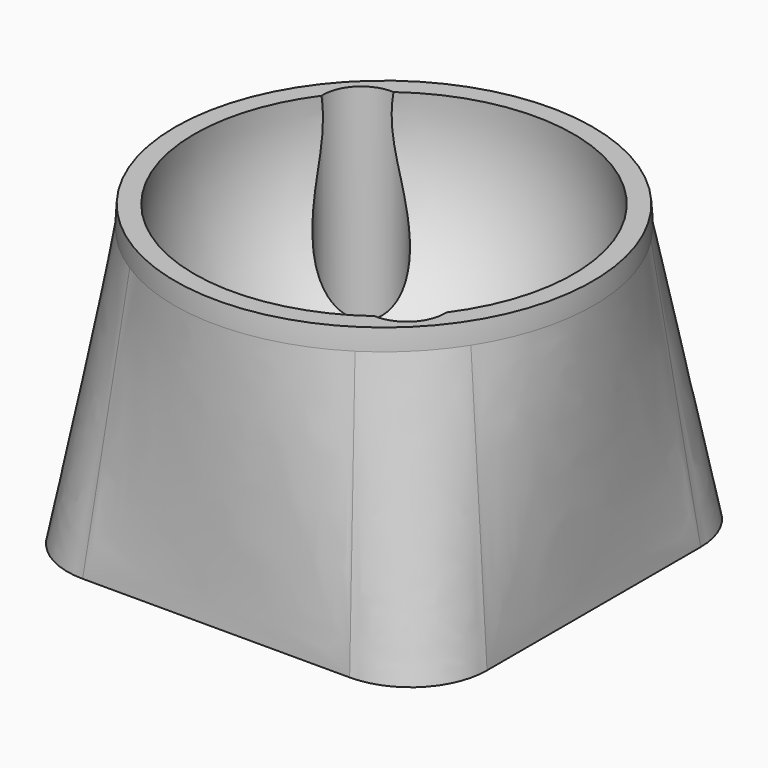
from build123d import *

# Parameters (mm, degrees)
BOX_W                  = 44
BOX_H                  = 44
BOX_DEPTH              = 44
SKETCH_R               = 22
CUT001_PLACEMENT_ANGLE = 180
SKETCH002_R            = 2.2
POCKET_DEPTH           = 30.201
SKETCH003_R            = 4
POCKET001_DEPTH        = 28.2
SKETCH004_R            = 1.75
PAD_DEPTH              = 2


with BuildPart() as sphere001:
    # Sphere001 → Sphere001 (revolve)
    with BuildSketch(Plane.XZ):
        with BuildLine():
            ThreePointArc((0, -20), (20, 0), (0, 20))
            Line((0, 20), (0, -20))
        make_face()
    revolve(axis=Axis((0, 0, 0), (0, 0, 1)))


with BuildPart() as cube:
    # Box → Box (new body)
    with BuildSketch(Plane(origin=(-22, -22, -46.2), x_dir=(1, 0, 0), z_dir=(0, 0, 1))):
        with Locations((22, 22)):
            Rectangle(BOX_W, BOX_H)
    extrude(amount=BOX_DEPTH)


with BuildPart() as cut:
    # Sphere → Sphere (revolve)
    with BuildSketch(Plane.XZ):
        with BuildLine():
            ThreePointArc((0, -22), (22, 0), (0, 22))
            Line((0, 22), (0, -22))
        make_face()
    revolve(axis=Axis((0, 0, 0), (0, 0, 1)))

    # Cut: cut Cube
    add(cube.part, mode=Mode.SUBTRACT)


with BuildPart() as pocket001:
    # Sketch → Loft section 0
    with BuildSketch(Plane.XY):
        Circle(SKETCH_R)
    # Sketch001 → Loft section 1
    with BuildSketch(Plane.XY.offset(28)):
        with BuildLine():
            Line((-14, 22), (14, 22))
            ThreePointArc((22, 14), (19.656854, 19.656854), (14, 22))
            Line((22, 14), (22, -14))
            ThreePointArc((14, -22), (19.656854, -19.656854), (22, -14))
            Line((14, -22), (-14, -22))
            ThreePointArc((-22, -14), (-19.656854, -19.656854), (-14, -22))
            Line((-22, -14), (-22, 14))
            ThreePointArc((-14, 22), (-19.656854, 19.656854), (-22, 14))
        make_face()
    loft()

    # Fusion: union Cut
    add(cut.part)

    # Cut001: cut Sphere001
    add(sphere001.part, mode=Mode.SUBTRACT)


with BuildPart() as pocket001_1:
    # Cut001 placement: moved
    add(pocket001.part.rotate(Axis((0, 0, 0), (0, 1, 0)), CUT001_PLACEMENT_ANGLE))

    # Sketch002 → Pocket (cut, through all)
    with BuildSketch(Plane(origin=(0, 0, -28), x_dir=(-1, 0, 0), z_dir=(0, 0, -1))):
        with Locations((-12, -12)):
            Circle(SKETCH002_R)
        with Locations((12, 12)):
            Circle(SKETCH002_R)
    extrude(amount=-POCKET_DEPTH, mode=Mode.SUBTRACT)

    # Sketch003 → Pocket001 (cut)
    with BuildSketch(Plane(origin=(0, 0, 2.2), x_dir=(-1, 0, 0), z_dir=(0, 0, 1))):
        with Locations((-12, 12)):
            Circle(SKETCH003_R)
        with Locations((12, -12)):
            Circle(SKETCH003_R)
    extrude(amount=-POCKET001_DEPTH, mode=Mode.SUBTRACT)


with BuildPart() as pad:
    # Sketch004 → Pad (new body)
    with BuildSketch(Plane(origin=(12, -12, -28), x_dir=(1, 0, 0), z_dir=(0, 0, 1))):
        Circle(SKETCH004_R)
    extrude(amount=PAD_DEPTH)


solid = Compound([pocket001_1.part, pad.part])
